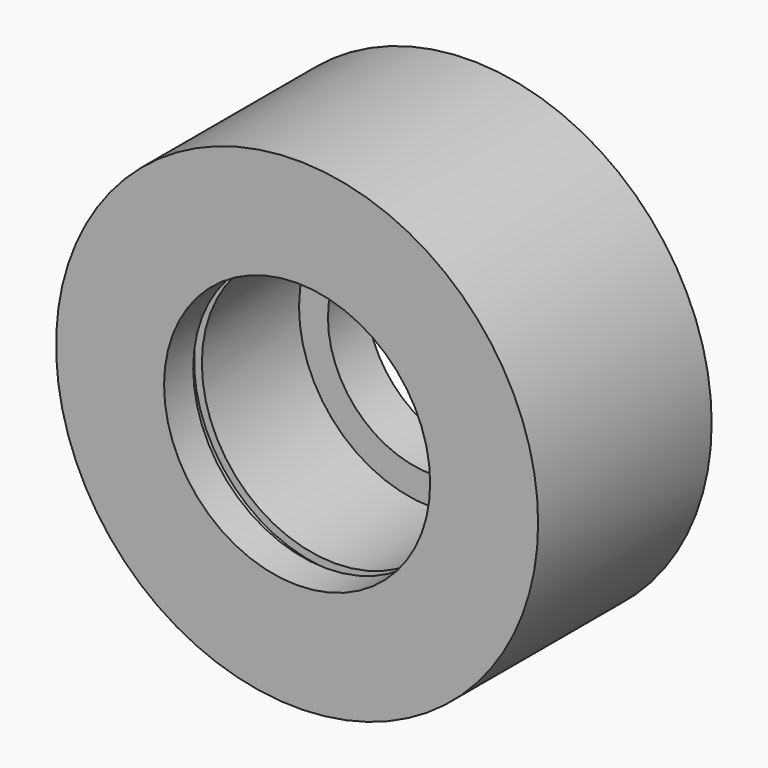
from build123d import *

# Parameters (mm, degrees)
F0_R           = 31.75
F1_DEPTH       = 28.575
F3_D           = 27.432
F3_CBORE_D     = 35.052
F3_CBORE_DEPTH = 22.225
F4_W           = 11.247322
F4_H           = 1.4224


with BuildPart() as f1:
    # F0 (on Front) → F1 (new body)
    with BuildSketch(Plane.XZ):
        Circle(F0_R)
    extrude(amount=F1_DEPTH)

    # F3 (through all)
    with Locations(Plane.XZ.offset(28.575)):
        with Locations((0, 0)):
            CounterBoreHole(F3_D / 2, F3_CBORE_D / 2, F3_CBORE_DEPTH)

    # F4 (on Top) → F5 (revolve, cut)
    with BuildSketch(Plane.XY):
        with Locations((12.931039, -23.0632)):
            Rectangle(F4_W, F4_H)
    revolve(axis=Axis((0, 2.595396, 0), (0, 1, 0)), mode=Mode.SUBTRACT)


solid = f1.part
